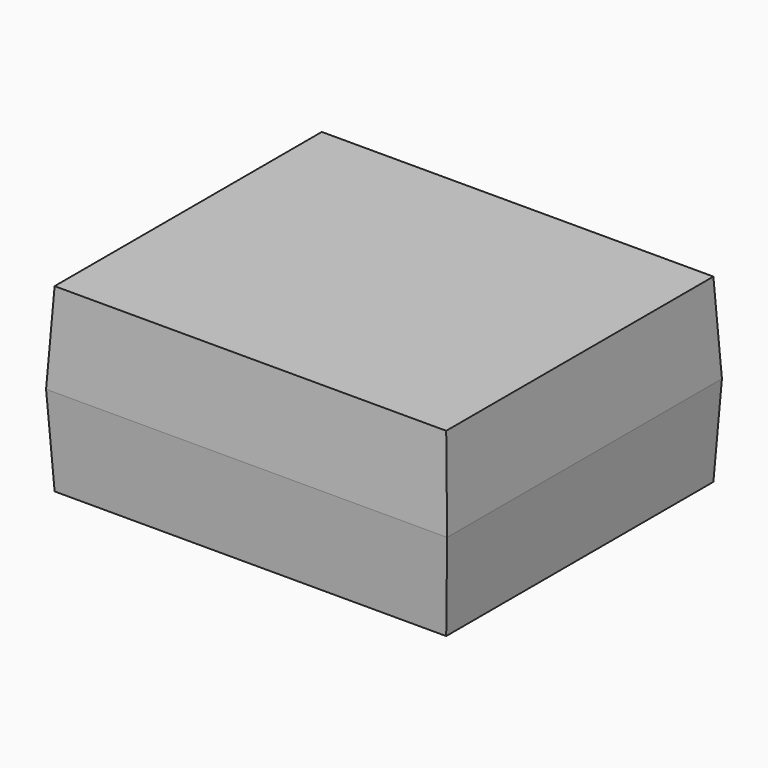
from build123d import *

# Parameters (mm, degrees)
F0_W     = 56.3611648977
F0_H     = 48.2659935951
F1_DEPTH = 12.7
F1_TAPER = 3


with BuildPart() as f1:
    # F0 (on Top) → F1 (new body, symmetric)
    with BuildSketch(Plane.XY):
        Rectangle(F0_W, F0_H)
    extrude(amount=F1_DEPTH, both=True, taper=F1_TAPER)


solid = f1.part
